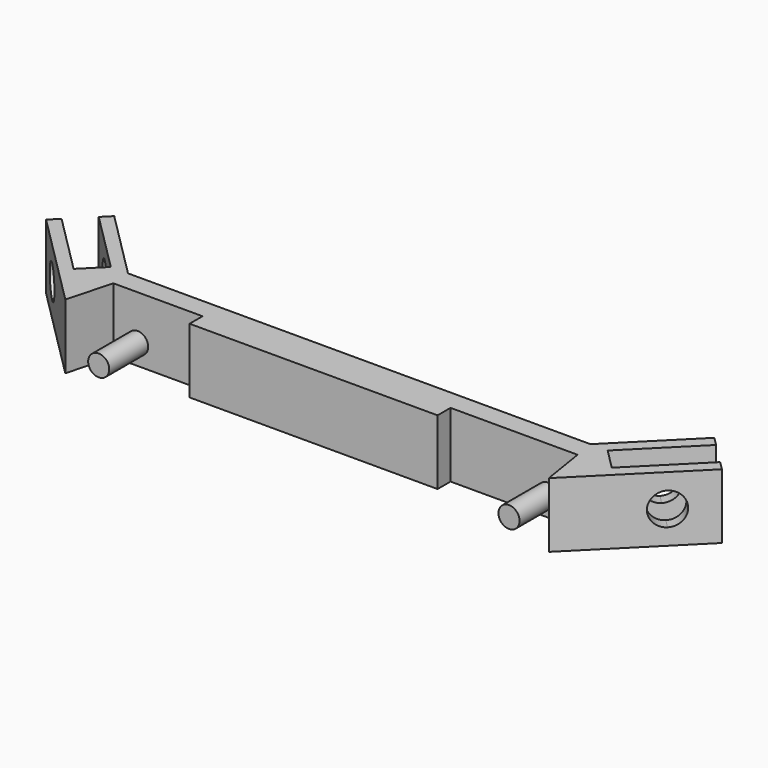
from build123d import *

# Parameters (mm, degrees)
F1_DEPTH = 8
F3_DEPTH = 10
F5_DEPTH = 9.9
F6_W     = 30.56961
F6_H     = 8
F7_DEPTH = 2
F6_R     = 1.3
F8_DEPTH = 6


with BuildPart() as f1:
    # F0 (on Top) → F1 (new body)
    with BuildSketch(Plane.XY):
        Polygon((28.5, -30), (-28.5, -30), (-36.985281, -21.514719), (-38.045942, -22.575379), (-30.62132, -30), (-33.166905, -32.545584), (-40.591526, -25.120963), (-41.652186, -26.181623), (-29.795584, -38.038225), (-28.312251, -32.5), (28.912205, -32.5), (29.795584, -38.038225), (41.652186, -26.181623), (40.591526, -25.120963), (33.166905, -32.545584), (30.62132, -30), (38.045942, -22.575379), (36.985281, -21.514719), align=None)
    extrude(amount=F1_DEPTH)

    # F2 (on face) → F3 (cut)
    with BuildSketch(Plane(origin=(33.916905, -33.916905, 0), x_dir=(0.707107, 0.707107, 0), z_dir=(0.707107, -0.707107, 0))):
        with BuildLine():
            ThreePointArc((7.671573, 4), (7.085786, 5.414214), (5.671573, 6))
            ThreePointArc((5.671573, 6), (3.671573, 4), (5.671573, 2))
            ThreePointArc((5.671573, 2), (7.085786, 2.585786), (7.671573, 4))
        make_face()
    extrude(amount=-F3_DEPTH, mode=Mode.SUBTRACT)

    # F4 (on face) → F5 (cut)
    with BuildSketch(Plane(origin=(-33.916905, -33.916905, 0), x_dir=(0.707107, -0.707107, 0), z_dir=(-0.707107, -0.707107, 0))):
        with BuildLine():
            ThreePointArc((-3.671573, 4), (-4.257359, 5.414214), (-5.671573, 6))
            ThreePointArc((-5.671573, 6), (-7.671573, 4), (-5.671573, 2))
            ThreePointArc((-5.671573, 2), (-4.257359, 2.585786), (-3.671573, 4))
        make_face()
    extrude(amount=-F5_DEPTH, mode=Mode.SUBTRACT)

    # F6 (on face) → F7 (join)
    with BuildSketch(Plane.XZ.offset(32.5)):
        with Locations((-2.027446, 4)):
            Rectangle(F6_W, F6_H)
    extrude(amount=F7_DEPTH)

    # F6 (on face) → F8 (join)
    with BuildSketch(Plane.XZ.offset(32.5)):
        with Locations((-25.312251, 2.5)):
            Circle(F6_R)
        with Locations((25.257359, 2.5)):
            Circle(F6_R)
    extrude(amount=F8_DEPTH)


solid = f1.part
